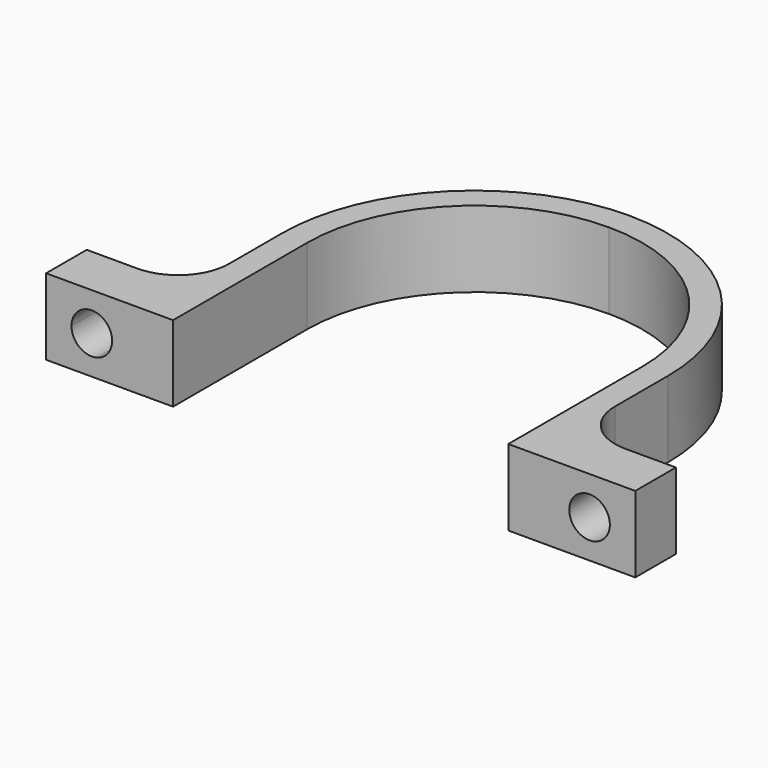
from build123d import *

# Parameters (mm, degrees)
F1_DEPTH      = 9.525
F2_R          = 2.54
F3_DEPTH      = 25.4
F3_DEPTH_BACK = 25.4


with BuildPart() as f1:
    # F0 (on Top) → F1 (new body)
    with BuildSketch(Plane.XY):
        with BuildLine():
            ThreePointArc((-20.955, 0), (-14.8174225998, 14.8174225998), (0, 20.955))
            ThreePointArc((0, 20.955), (14.8174225998, 14.8174225998), (20.955, 0))
            Line((20.955, 0), (20.955, -20.955))
            Line((20.955, -20.955), (36.83, -20.955))
            Line((36.83, -20.955), (36.83, -14.605))
            Line((36.83, -14.605), (30.48, -14.605))
            ThreePointArc((30.48, -14.605), (25.9898719395, -12.7451280605), (24.13, -8.255))
            Line((24.13, -8.255), (24.13, 0))
            ThreePointArc((24.13, 0), (17.06248663, 17.06248663), (0, 24.13))
            ThreePointArc((0, 24.13), (-17.06248663, 17.06248663), (-24.13, 0))
            Line((-24.13, 0), (-24.13, -8.255))
            ThreePointArc((-24.13, -8.255), (-25.9898719395, -12.7451280605), (-30.48, -14.605))
            Line((-30.48, -14.605), (-36.83, -14.605))
            Line((-36.83, -14.605), (-36.83, -20.955))
            Line((-36.83, -20.955), (-20.955, -20.955))
            Line((-20.955, -20.955), (-20.955, 0))
        make_face()
    extrude(amount=F1_DEPTH)

    # F2 (on face) → F3 (cut, two sides)
    with BuildSketch(Plane(origin=(0, -14.605, 0), x_dir=(-1, 0, 0), z_dir=(0, 1, 0))) as f3_sk:
        with Locations((-31.115, 4.7625)):
            Circle(F2_R)
        with BuildLine():
            Line((30.48, 2.3031555752), (30.48, 7.2218444248))
            ThreePointArc((30.48, 7.2218444248), (28.575, 4.7625), (30.48, 2.3031555752))
        make_face()
        with BuildLine():
            ThreePointArc((30.48, 2.3031555752), (32.6704259867, 2.7544536858), (33.655, 4.7625))
            ThreePointArc((33.655, 4.7625), (32.6704259867, 6.7705463142), (30.48, 7.2218444248))
            Line((30.48, 7.2218444248), (30.48, 2.3031555752))
        make_face()
    extrude(amount=-F3_DEPTH, mode=Mode.SUBTRACT)
    extrude(f3_sk.sketch, amount=F3_DEPTH_BACK, mode=Mode.SUBTRACT)


solid = f1.part
